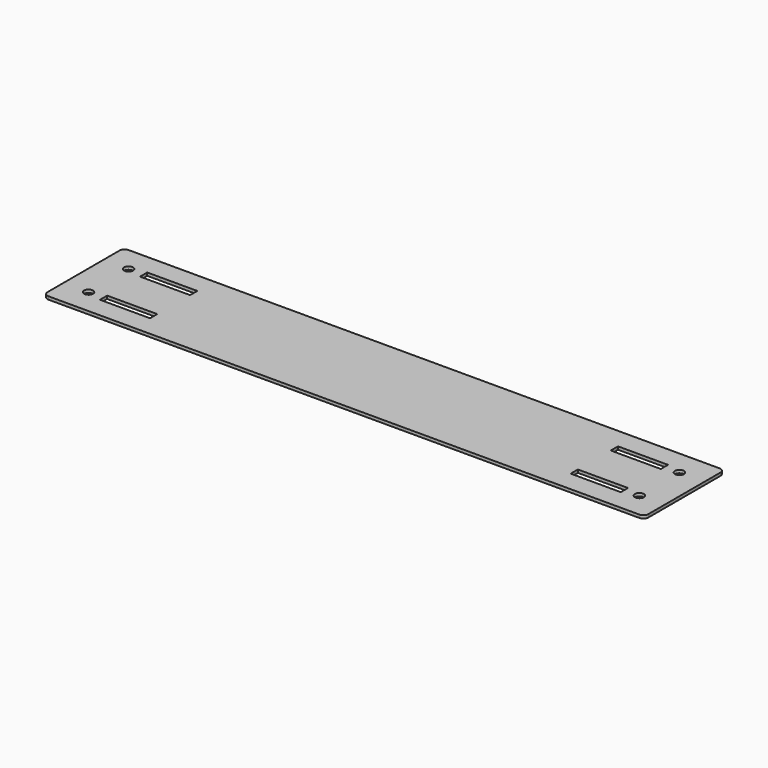
from build123d import *

# Parameters (mm, degrees)
F0_W     = 50
F0_H     = 9
F0_R     = 4.5
F1_DEPTH = 3


with BuildPart() as f1:
    # F0 (on Top) → F1 (new body)
    with BuildSketch(Plane.XY):
        with BuildLine():
            ThreePointArc((0, -5), (-1.464466, -1.464466), (-5, 0))
            Line((-5, 0), (-50, 0))
            Line((-50, 0), (-550, 0))
            Line((-550, 0), (-595, 0))
            ThreePointArc((-595, 0), (-598.535534, -1.464466), (-600, -5))
            Line((-600, -5), (-600, -95))
            ThreePointArc((-600, -95), (-598.535534, -98.535534), (-595, -100))
            Line((-595, -100), (-550, -100))
            Line((-550, -100), (-50, -100))
            Line((-50, -100), (-5, -100))
            ThreePointArc((-5, -100), (-1.464466, -98.535534), (0, -95))
            Line((0, -95), (0, -5))
        make_face()
        with Locations((-535, -75.006462)):
            Rectangle(F0_W, F0_H, mode=Mode.SUBTRACT)
        with Locations((-575, -75)):
            Circle(F0_R, mode=Mode.SUBTRACT)
        with Locations((-65, -75.006462)):
            Rectangle(F0_W, F0_H, mode=Mode.SUBTRACT)
        with Locations((-25, -75)):
            Circle(F0_R, mode=Mode.SUBTRACT)
        with Locations((-575, -25)):
            Circle(F0_R, mode=Mode.SUBTRACT)
        with Locations((-535, -24.993538)):
            Rectangle(F0_W, F0_H, mode=Mode.SUBTRACT)
        with Locations((-65, -24.993538)):
            Rectangle(F0_W, F0_H, mode=Mode.SUBTRACT)
        with Locations((-25, -25)):
            Circle(F0_R, mode=Mode.SUBTRACT)
    extrude(amount=F1_DEPTH)


solid = f1.part
